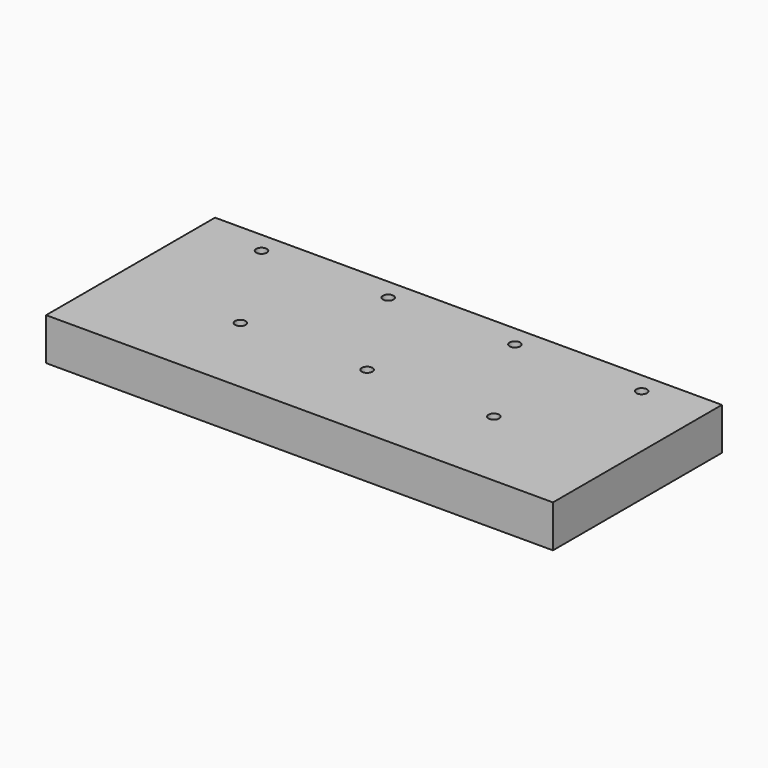
from build123d import *

# Parameters (mm, degrees)
F0_W     = 304.8
F0_H     = 127
F0_R     = 3.175
F1_DEPTH = 25.4


with BuildPart() as f1:
    # F0 (on Top) → F1 (new body)
    with BuildSketch(Plane.XY):
        with Locations((152.4, 63.5)):
            Rectangle(F0_W, F0_H)
        with Locations((76.2, 50.8)):
            Circle(F0_R, mode=Mode.SUBTRACT)
        with Locations((152.4, 50.8)):
            Circle(F0_R, mode=Mode.SUBTRACT)
        with Locations((228.6, 50.8)):
            Circle(F0_R, mode=Mode.SUBTRACT)
        with Locations((38.1, 114.3)):
            Circle(F0_R, mode=Mode.SUBTRACT)
        with Locations((114.3, 114.3)):
            Circle(F0_R, mode=Mode.SUBTRACT)
        with Locations((190.5, 114.3)):
            Circle(F0_R, mode=Mode.SUBTRACT)
        with Locations((266.7, 114.3)):
            Circle(F0_R, mode=Mode.SUBTRACT)
    extrude(amount=F1_DEPTH)


solid = f1.part
